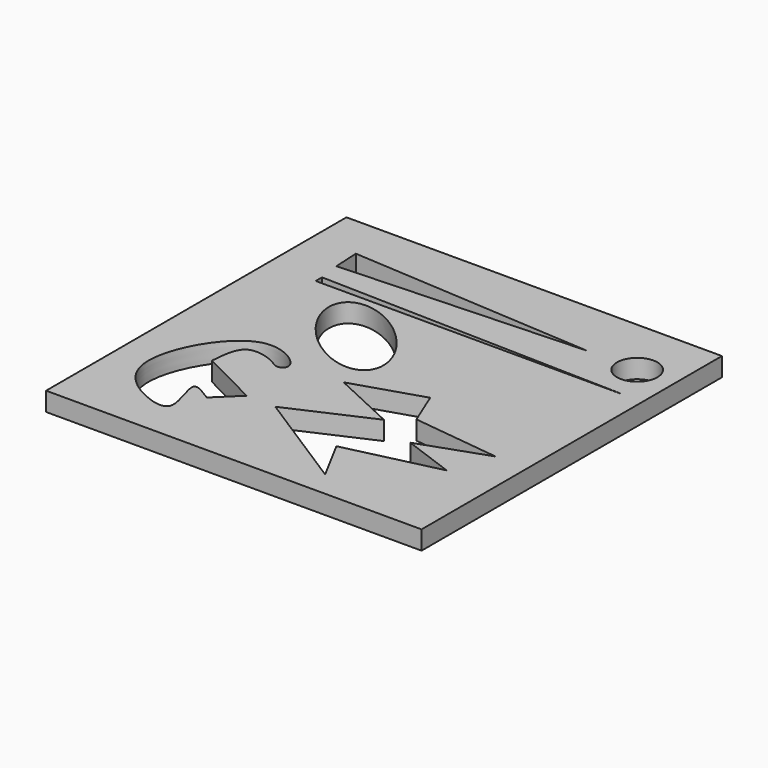
from build123d import *

# Parameters (mm, degrees)
F0_W     = 101.6
F0_H     = 101.6
F1_DEPTH = 5.08
F2_R     = 5.4719156686
F3_DEPTH = 5.081


with BuildPart() as f1:
    # F0 (on Top) → F1 (new body)
    with BuildSketch(Plane.XY):
        Rectangle(F0_W, F0_H)
    extrude(amount=F1_DEPTH)

    # F2 (on face) → F3 (cut, through all)
    with BuildSketch(Plane.XY.offset(5.08)):
        Polygon((27.0817726851, 34.8737165332), (-38.8647168875, 39.0547625721), (-38.484621793, 32.0230051875), align=None)
        with Locations((40.7651923597, 34.6836708486)):
            Circle(F2_R)
        with BuildLine():
            Line((-16.2555626604, -26.137830123), (-32.0295053545, -18.1558331397))
            add(Edge.make_bspline(
                [(-22.3305821419, -32.0230051875), (-24.776694532, -30.4415309491), (-30.4322451019, -26.7850728213), (-23.0170150536, -42.0163206237), (-33.506772477, -40.2566021427), (-48.6726949044, -29.1901398912), (-31.3388493358, 1.7749464513), (-15.6838474947, -9.4580217395), (-19.5735741699, -12.4024221896), (-22.0973898256, -9.948379059), (-31.1582344508, -7.5567476487), (-31.7278443457, -14.4861010192), (-32.0295053545, -18.1558331397)],
                knots=[0, 0, 0, 0, 0.0808489264, 0.186927303, 0.2703770111, 0.4057680835, 0.580262253, 0.6960867266, 0.7472377187, 0.8088386302, 0.8987624124, 1, 1, 1, 1], degree=3))
            Line((-22.3305821419, -32.0230051875), (-16.2555626604, -26.137830123))
        make_face()
        Polygon((42.1547703445, -14.9890109897), (18.503209576, -12.1669499204), (14.6060762927, -2.6256944984), (-4.0732817724, -8.5385851562), (13.2622374222, -16.6016183794), (-8.3735678345, -26.2772571295), (19.1751271486, -43.881546706), (12.9934698343, -32.3245339096), (38.1232574582, -26.4116413891), (24.1473335773, -21.3050544262), align=None)
        Polygon((46.1862906814, 23.9823125303), (-37.6692526042, 26.1324550956), (-37.6692526042, 23.9823125303), align=None)
        with BuildLine():
            add(Edge.make_bspline(
                [(-3.670129925, -1.0130857117), (6.0805073529, 9.6015341959), (-16.1303332746, 20.2187122035), (-38.3411739022, 30.8358902112), (-25.8809705525, 9.6040922959), (-13.4207672029, -11.6277056193), (-3.670129925, -1.0130857117)],
                knots=[0, 0, 0, 2.0943951024, 2.0943951024, 4.1887902048, 4.1887902048, 6.2831853072, 6.2831853072, 6.2831853072], degree=2, weights=[1, 0.5, 1, 0.5, 1, 0.5, 1]))
        make_face()
    extrude(amount=-F3_DEPTH, mode=Mode.SUBTRACT)


solid = f1.part
